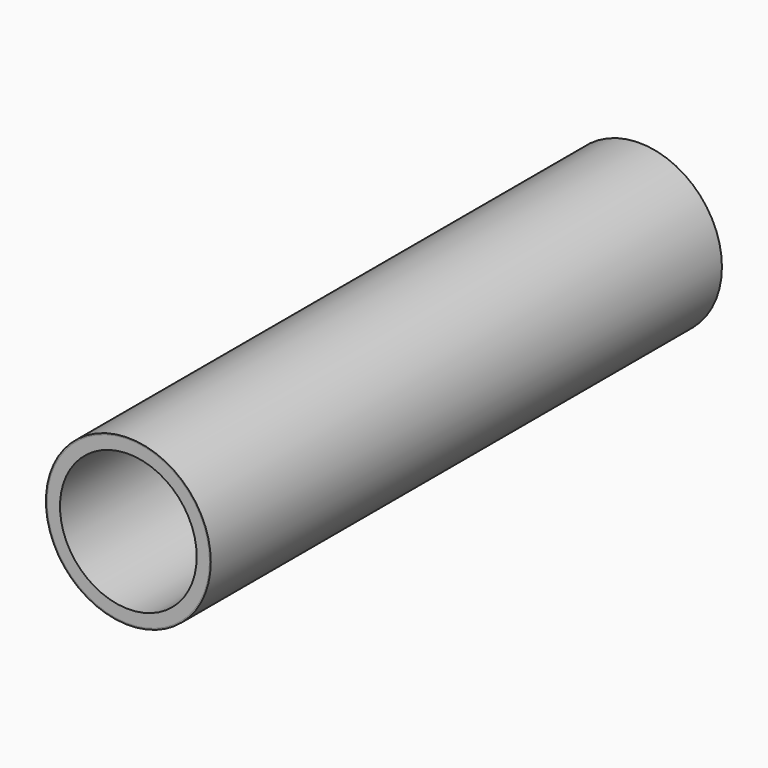
from build123d import *

# Parameters (mm, degrees)
F0_R     = 6.35
F0_R_2   = 5.35
F1_DEPTH = 50
F2_R     = 6.45
F2_R_2   = 6.35
F3_DEPTH = 50


with BuildPart() as f1:
    # F0 (on Front) → F1 (new body)
    with BuildSketch(Plane.XZ):
        Circle(F0_R)
        Circle(F0_R_2, mode=Mode.SUBTRACT)
    extrude(amount=F1_DEPTH)


with BuildPart() as f3:
    # F2 (on Front) → F3 (new body, through all)
    with BuildSketch(Plane.XZ):
        Circle(F2_R)
        Circle(F2_R_2, mode=Mode.SUBTRACT)
    extrude(amount=F3_DEPTH)


solid = Compound([f1.part, f3.part])
